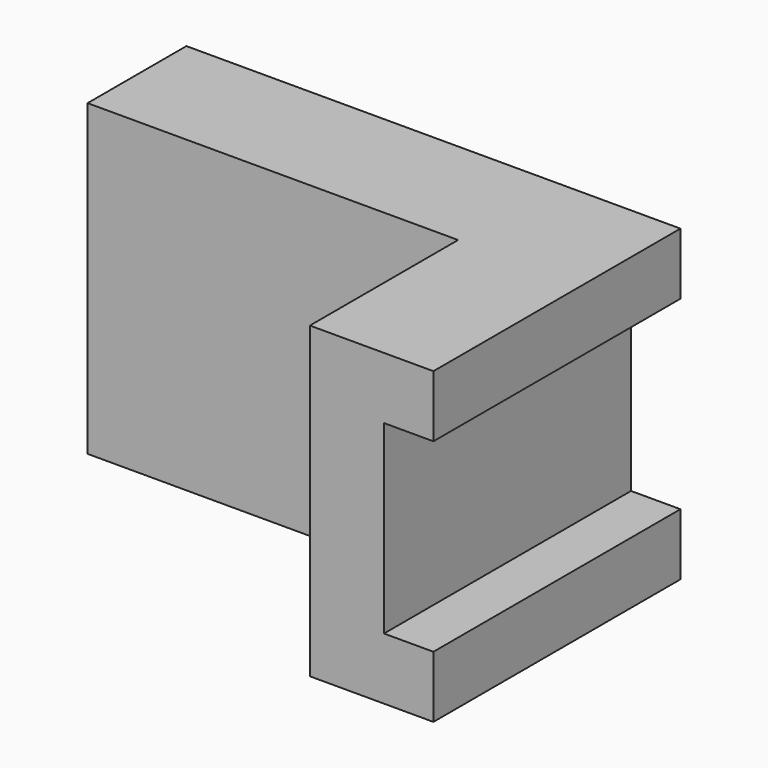
from build123d import *

# Parameters (mm, degrees)
F0_W     = 60
F0_H     = 50
F1_DEPTH = 20
F2_DEPTH = 50


with BuildPart() as f1:
    # F0 (on Front) → F1 (new body)
    with BuildSketch(Plane.XZ):
        with Locations((-31.117518, 12.066533)):
            Rectangle(F0_W, F0_H)
    extrude(amount=F1_DEPTH)

    # F0 (on Front) → F2 (join)
    with BuildSketch(Plane.XZ):
        Polygon((18.882482, 37.066533), (-1.117518, 37.066533), (-1.117518, -12.933467), (18.882482, -12.933467), (18.882482, -2.933467), (10.882482, -2.933467), (10.882482, 27.066533), (18.882482, 27.066533), align=None)
    extrude(amount=F2_DEPTH)


solid = f1.part
